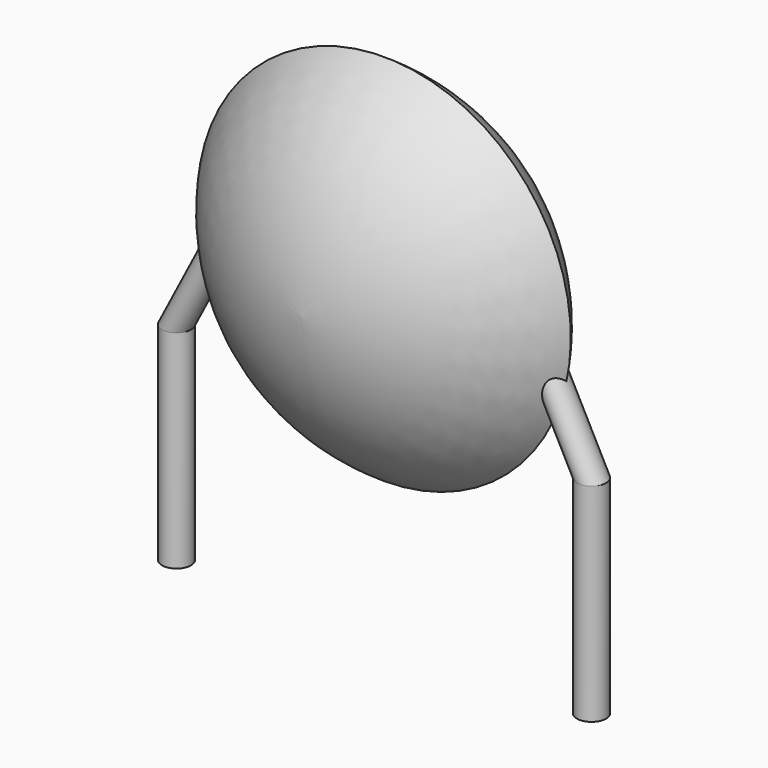
from build123d import *

# Parameters (mm, degrees)
SKETCH001_R       = 0.35
PAD001_DEPTH      = 1.8
PAD001_DEPTH_BACK = 3.2
SKETCH002_R       = 0.35
SKETCH003_R       = 0.35
SKETCH004_R       = 0.35
SKETCH005_R       = 0.35


with BuildPart() as pad001:
    # Sketch001 → Pad001 (new body, two sides)
    with BuildSketch(Plane.XY) as pad001_sk:
        Circle(SKETCH001_R)
        with Locations((10, 0)):
            Circle(SKETCH001_R)
    extrude(amount=PAD001_DEPTH)
    extrude(pad001_sk.sketch, amount=-PAD001_DEPTH_BACK)


with BuildPart() as revolution:
    # Sketch → Revolution (revolve)
    with BuildSketch(Plane.YZ.offset(5)):
        with BuildLine():
            Line((-2.5, 4.6), (2.5, 4.6))
            ThreePointArc((0, 0.1), (1.794778, 2.047346), (2.5, 4.6))
            ThreePointArc((-2.5, 4.6), (-1.794778, 2.047346), (0, 0.1))
        make_face()
    revolve(axis=Axis((5, -3.32079, 4.6), (0, 1, 0)))


with BuildPart() as loft_body:
    # Sketch002 → Loft section 0
    with BuildSketch(Plane.XY.offset(4.5)):
        with Locations((1.4, 0)):
            Circle(SKETCH002_R)
    # Sketch003 → Loft section 1
    with BuildSketch(Plane.XY.offset(1.8)):
        Circle(SKETCH003_R)
    loft()


with BuildPart() as loft001:
    # Sketch004 → Loft001 section 0
    with BuildSketch(Plane.XY.offset(1.8)):
        with Locations((10, 0)):
            Circle(SKETCH004_R)
    # Sketch005 → Loft001 section 1
    with BuildSketch(Plane.XY.offset(4.5)):
        with Locations((8.6, 0)):
            Circle(SKETCH005_R)
    loft()


solid = Compound([pad001.part, revolution.part, loft_body.part, loft001.part])
